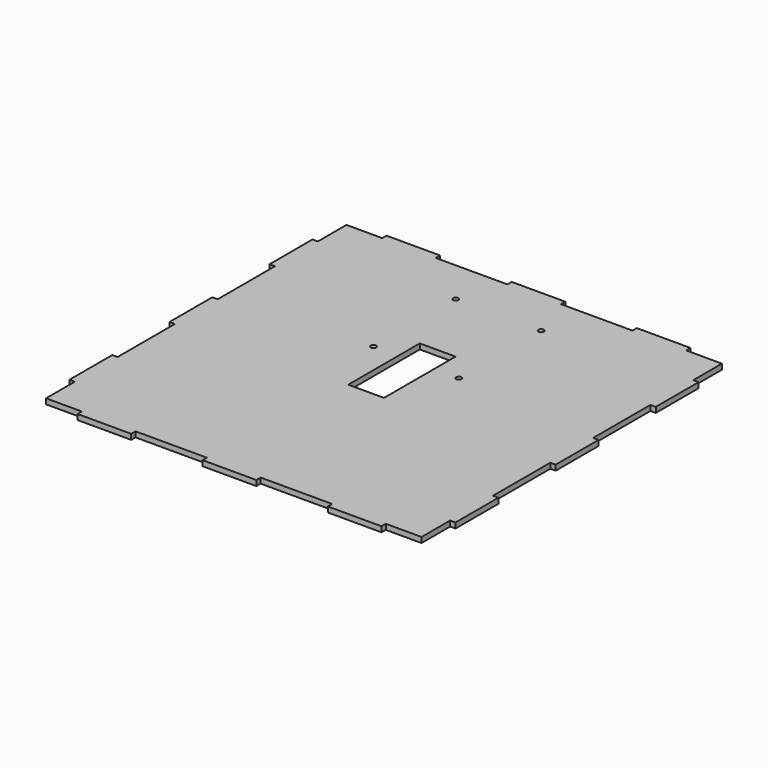
from build123d import *

# Parameters (mm, degrees)
F0_R     = 1.5
F0_W     = 20
F0_H     = 50
F0_W_2   = 30
F0_H_2   = 3
F0_W_3   = 3
F0_H_3   = 30
F1_DEPTH = 3


with BuildPart() as f1:
    # F0 (on Top) → F1 (new body)
    with BuildSketch(Plane.XY):
        Polygon((0, 20), (0, 0), (20, 0), (50, 0), (90, 0), (120, 0), (160, 0), (190, 0), (210, 0), (210, 20), (210, 50), (210, 90), (210, 120), (210, 160), (210, 190), (210, 210), (190, 210), (160, 210), (120, 210), (90, 210), (50, 210), (20, 210), (0, 210), (0, 190), (0, 160), (0, 120), (0, 90), (0, 50), align=None)
        with Locations((81.125, 127.5)):
            Circle(F0_R, mode=Mode.SUBTRACT)
        with Locations((81.125, 185)):
            Circle(F0_R, mode=Mode.SUBTRACT)
        with Locations((105, 117.5)):
            Rectangle(F0_W, F0_H, mode=Mode.SUBTRACT)
        with Locations((128.875, 127.5)):
            Circle(F0_R, mode=Mode.SUBTRACT)
        with Locations((128.875, 185)):
            Circle(F0_R, mode=Mode.SUBTRACT)
        with Locations((35, -1.5)):
            Rectangle(F0_W_2, F0_H_2)
        with Locations((-1.5, 35)):
            Rectangle(F0_W_3, F0_H_3)
        with Locations((105, -1.5)):
            Rectangle(F0_W_2, F0_H_2)
        with Locations((-1.5, 105)):
            Rectangle(F0_W_3, F0_H_3)
        with Locations((175, -1.5)):
            Rectangle(F0_W_2, F0_H_2)
        with Locations((-1.5, 175)):
            Rectangle(F0_W_3, F0_H_3)
        with Locations((211.5, 35)):
            Rectangle(F0_W_3, F0_H_3)
        with Locations((35, 211.5)):
            Rectangle(F0_W_2, F0_H_2)
        with Locations((211.5, 105)):
            Rectangle(F0_W_3, F0_H_3)
        with Locations((105, 211.5)):
            Rectangle(F0_W_2, F0_H_2)
        with Locations((211.5, 175)):
            Rectangle(F0_W_3, F0_H_3)
        with Locations((175, 211.5)):
            Rectangle(F0_W_2, F0_H_2)
    extrude(amount=F1_DEPTH)


solid = f1.part
